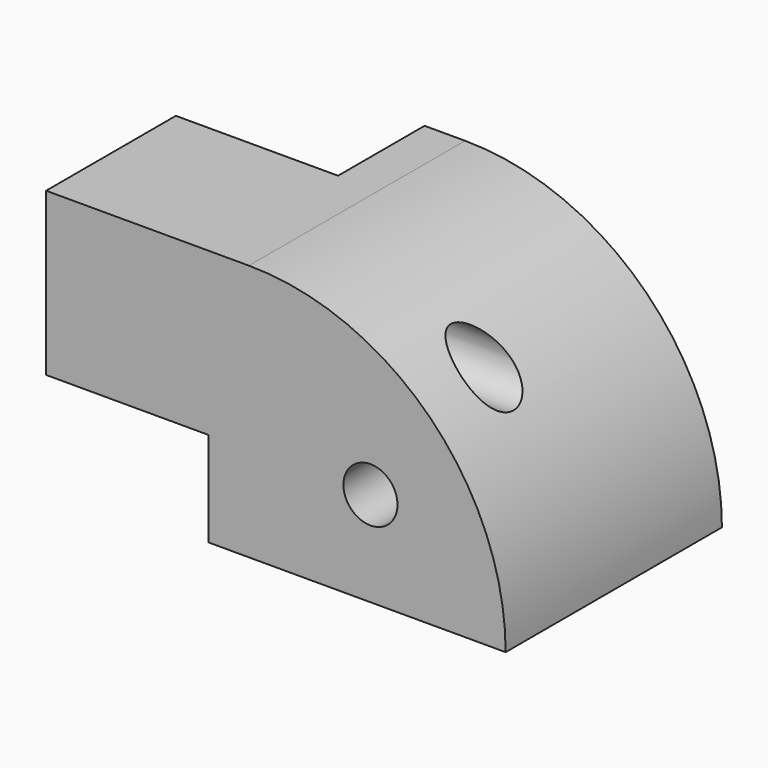
from build123d import *

# Parameters (mm, degrees)
F0_W     = 19.05
F0_H     = 120.65
F1_DEPTH = 127
F2_W     = 76.2
F2_H     = 76.2
F3_DEPTH = 76.2
F5_D     = 26.19502
F7_D     = 25.4


with BuildPart() as f1:
    # F0 (on Front) → F1 (new body)
    with BuildSketch(Plane.XZ):
        with BuildLine():
            ThreePointArc((120.65, 0), (85.3124331502, 85.3124331502), (0, 120.65))
            Line((0, 120.65), (0, 0))
            Line((0, 0), (120.65, 0))
        make_face()
        with Locations((-9.525, 60.325)):
            Rectangle(F0_W, F0_H)
    extrude(amount=-F1_DEPTH)

    # F2 (on face) → F3 (join)
    with BuildSketch(Plane(origin=(-19.05, 0, 0), x_dir=(0, -1, 0), z_dir=(-1, 0, 0))):
        with Locations((-38.1, 82.55)):
            Rectangle(F2_W, F2_H)
    extrude(amount=F3_DEPTH)

    # F5 (through all)
    with Locations(Plane(origin=(-95.25, 0, 0), x_dir=(0, -1, 0), z_dir=(-1, 0, 0))):
        with Locations((-38.1, 88.9)):
            Hole(F5_D / 2)

    # F7 (through all)
    with Locations(Plane.XZ):
        with Locations((57.15, 44.45)):
            Hole(F7_D / 2)


solid = f1.part
